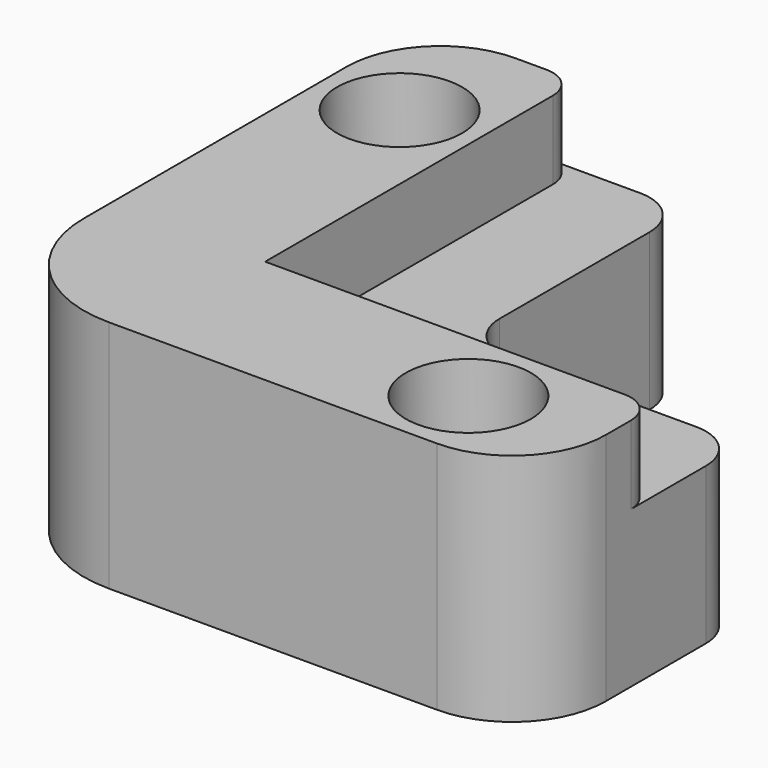
from build123d import *

# Parameters (mm, degrees)
F1_DEPTH = 15
F3_DEPTH = 10
F4_R     = 2
F5_DEPTH = 25
F6_R     = 4
F7_DEPTH = 11
F8_R     = 8
F9_R     = 6
F10_R    = 3
F11_R    = 2


with BuildPart() as f1:
    # F0 (on Top) → F1 (new body)
    with BuildSketch(Plane.XY):
        Polygon((25, 0), (0, 0), (0, 25), (-10, 25), (-10, -10), (25, -10), align=None)
    extrude(amount=F1_DEPTH)

    # F2 (on face) → F3 (join)
    with BuildSketch(Plane(origin=(0, 0, 0), x_dir=(1, 0, 0), z_dir=(0, 0, -1))):
        Polygon((25, 0), (0, 0), (0, -25), (7, -25), (7, -7), (25, -7), align=None)
    extrude(amount=-F3_DEPTH)

    # F4 (on face) → F5 (cut)
    with BuildSketch(Plane.XY.offset(15)):
        with Locations((17, -5)):
            Circle(F4_R)
        with Locations((-5, 17)):
            Circle(F4_R)
    extrude(amount=-F5_DEPTH, mode=Mode.SUBTRACT)

    # F6 (on face) → F7 (cut)
    with BuildSketch(Plane.XY.offset(15)):
        with Locations((17, -5)):
            Circle(F6_R)
        with Locations((-5, 17)):
            Circle(F6_R)
    extrude(amount=-F7_DEPTH, mode=Mode.SUBTRACT)

    # F8
    f8_edges = [f1.edges().sort_by_distance(p)[0] for p in [
        (-10, -10, 7.5),
    ]]
    fillet(f8_edges, radius=F8_R)

    # F9
    f9_edges = [f1.edges().sort_by_distance(p)[0] for p in [
        (25, -10, 7.5),
        (-10, 25, 7.5),
    ]]
    fillet(f9_edges, radius=F9_R)

    # F10
    f10_edges = [f1.edges().sort_by_distance(p)[0] for p in [
        (25, 7, 5),
        (7, 7, 5),
        (7, 25, 5),
    ]]
    fillet(f10_edges, radius=F10_R)

    # F11
    f11_edges = [f1.edges().sort_by_distance(p)[0] for p in [
        (25, 0, 12.5),
        (0, 25, 12.5),
    ]]
    fillet(f11_edges, radius=F11_R)


solid = f1.part
